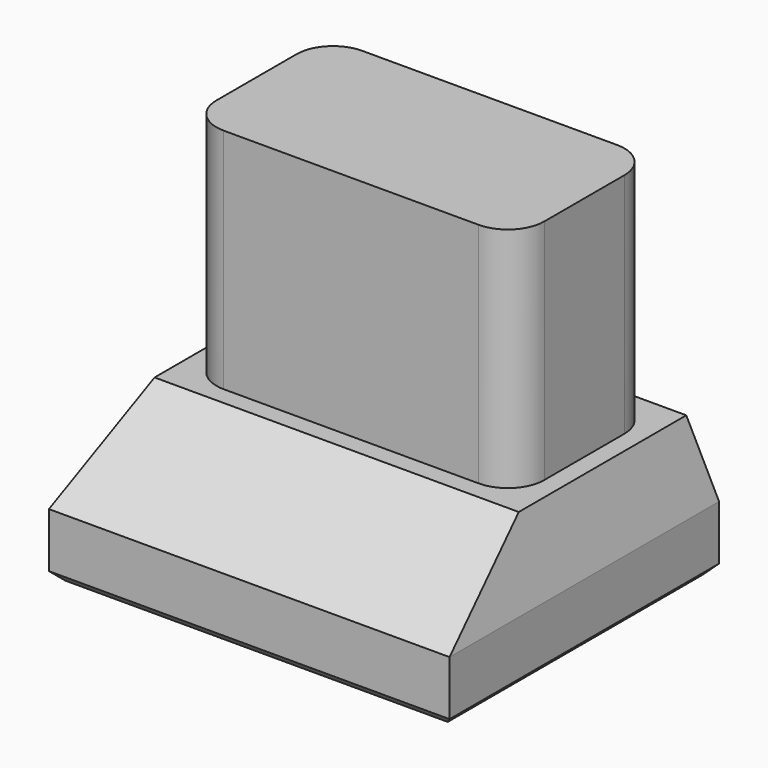
from build123d import *

# Parameters (mm, degrees)
F0_W     = 44
F0_H     = 37
F1_DEPTH = 15.5
F2_SIZE2 = 8.5
F2_SIZE  = 12
F3_SIZE2 = 8.5
F3_SIZE  = 2
F4_W     = 36
F4_H     = 19
F5_DEPTH = 25
F6_R     = 4
F7_SIZE  = 1


with BuildPart() as f1:
    # F0 (on Top) → F1 (new body)
    with BuildSketch(Plane.XY):
        Rectangle(F0_W, F0_H)
    extrude(amount=F1_DEPTH)

    # F2
    f2_edges = [f1.edges().sort_by_distance(p)[0] for p in [
        (0, -18.5, 15.5),
    ]]
    f2_side = f1.faces().sort_by_distance((0, 0, 15.5))[0]
    chamfer(f2_edges, length=F2_SIZE, length2=F2_SIZE2, reference=f2_side)

    # F3
    f3_edges = [f1.edges().sort_by_distance(p)[0] for p in [
        (-22, 6, 15.5),
        (22, 6, 15.5),
        (0, 18.5, 15.5),
    ]]
    f3_side = f1.faces().sort_by_distance((0, 6, 15.5))[0]
    chamfer(f3_edges, length=F3_SIZE, length2=F3_SIZE2, reference=f3_side)

    # F4 (on face) → F5 (join)
    with BuildSketch(Plane.XY.offset(15.5)):
        with Locations((0, 5)):
            Rectangle(F4_W, F4_H)
    extrude(amount=F5_DEPTH)

    # F6
    f6_edges = [f1.edges().sort_by_distance(p)[0] for p in [
        (-18, -4.5, 28),
        (-18, 14.5, 28),
        (18, -4.5, 28),
        (18, 14.5, 28),
    ]]
    fillet(f6_edges, radius=F6_R)

    # F7
    f7_edges = [f1.edges().sort_by_distance(p)[0] for p in [
        (-22, 0, 0),
        (0, 18.5, 0),
        (22, 0, 0),
        (0, -18.5, 0),
    ]]
    chamfer(f7_edges, length=F7_SIZE)


solid = f1.part
